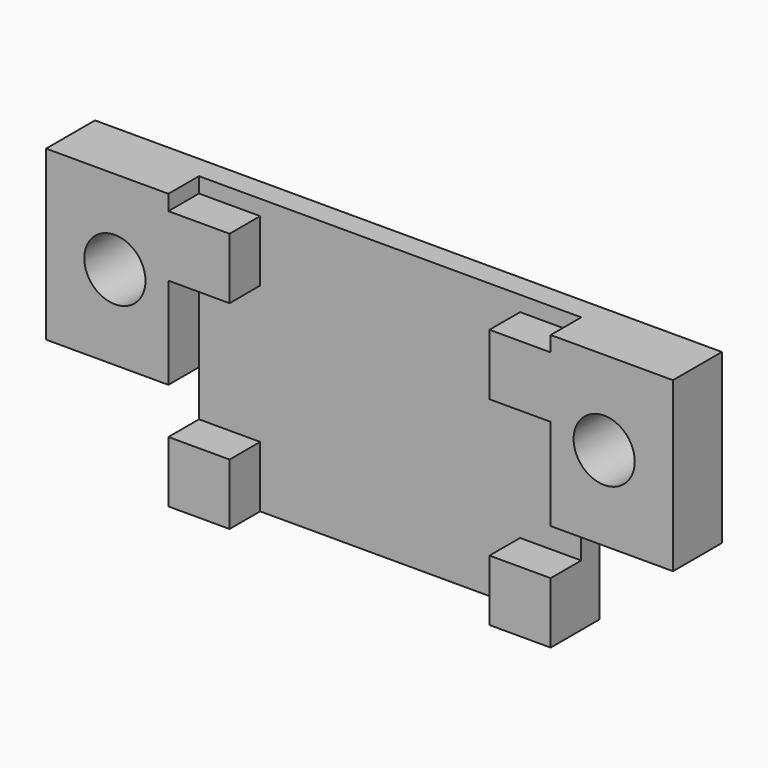
from build123d import *

# Parameters (mm, degrees)
CYLINDER399_R          = 2
CYLINDER399_DEPTH      = 13
CYLINDER398_R          = 2
CYLINDER398_DEPTH      = 13
BOX506_W               = 4
BOX506_H               = 4
BOX506_DEPTH           = 4
BOX510_W               = 25
BOX510_H               = 18
BOX510_DEPTH           = 1.5
BOX507_W               = 4
BOX507_H               = 4
BOX507_DEPTH           = 4
BOX509_W               = 4
BOX509_H               = 4
BOX509_DEPTH           = 4
BOX508_W               = 4
BOX508_H               = 4
BOX508_DEPTH           = 4
BOX511_W               = 8
BOX511_H               = 11
BOX511_DEPTH           = 4
BOX512_W               = 8
BOX512_H               = 11
BOX512_DEPTH           = 4
CUT427_PLACEMENT_ANGLE = 90


with BuildPart() as cylinder399:
    # Cylinder399 → Cylinder399 (new body)
    with BuildSketch(Plane(origin=(-48, -69, -5), x_dir=(1, 0, 0), z_dir=(0, 0, 1))):
        Circle(CYLINDER399_R)
    extrude(amount=CYLINDER399_DEPTH)


with BuildPart() as fusion396:
    # Cylinder398 → Cylinder398 (new body)
    with BuildSketch(Plane(origin=(-16, -69, -5), x_dir=(1, 0, 0), z_dir=(0, 0, 1))):
        Circle(CYLINDER398_R)
    extrude(amount=CYLINDER398_DEPTH)

    # Fusion396: union Cylinder399
    add(cylinder399.part)


with BuildPart() as fusion396_1:
    # Fusion396 placement: moved
    add(fusion396.part.moved(Location((-2.5, 50, 51))))


with BuildPart() as box506:
    # Box506 → Box506 (new body)
    with BuildSketch(Plane(origin=(-26, -10.5, 51), x_dir=(1, 0, 0), z_dir=(0, 0, 1))):
        with Locations((2, 2)):
            Rectangle(BOX506_W, BOX506_H)
    extrude(amount=BOX506_DEPTH)


with BuildPart() as box510:
    # Box510 → Box510 (new body)
    with BuildSketch(Plane(origin=(-47, -24.5, 53.5), x_dir=(1, 0, 0), z_dir=(0, 0, 1))):
        with Locations((12.5, 9)):
            Rectangle(BOX510_W, BOX510_H)
    extrude(amount=BOX510_DEPTH)


with BuildPart() as box507:
    # Box507 → Box507 (new body)
    with BuildSketch(Plane(origin=(-26, -23.5, 51), x_dir=(1, 0, 0), z_dir=(0, 0, 1))):
        with Locations((2, 2)):
            Rectangle(BOX507_W, BOX507_H)
    extrude(amount=BOX507_DEPTH)


with BuildPart() as box509:
    # Box509 → Box509 (new body)
    with BuildSketch(Plane(origin=(-47, -23.5, 51), x_dir=(1, 0, 0), z_dir=(0, 0, 1))):
        with Locations((2, 2)):
            Rectangle(BOX509_W, BOX509_H)
    extrude(amount=BOX509_DEPTH)


with BuildPart() as box508:
    # Box508 → Box508 (new body)
    with BuildSketch(Plane(origin=(-47, -10.5, 51), x_dir=(1, 0, 0), z_dir=(0, 0, 1))):
        with Locations((2, 2)):
            Rectangle(BOX508_W, BOX508_H)
    extrude(amount=BOX508_DEPTH)


with BuildPart() as box511:
    # Box511 → Box511 (new body)
    with BuildSketch(Plane(origin=(-55, -24.5, 51), x_dir=(1, 0, 0), z_dir=(0, 0, 1))):
        with Locations((4, 5.5)):
            Rectangle(BOX511_W, BOX511_H)
    extrude(amount=BOX511_DEPTH)


with BuildPart() as cut427:
    # Box512 → Box512 (new body)
    with BuildSketch(Plane(origin=(-22, -24.5, 51), x_dir=(1, 0, 0), z_dir=(0, 0, 1))):
        with Locations((4, 5.5)):
            Rectangle(BOX512_W, BOX512_H)
    extrude(amount=BOX512_DEPTH)

    # Fusion397: union Box506, Box510, Box507, Box509, Box508, Box511
    add(box506.part)
    add(box510.part)
    add(box507.part)
    add(box509.part)
    add(box508.part)
    add(box511.part)

    # Cut427: cut Fusion396
    add(fusion396_1.part, mode=Mode.SUBTRACT)


with BuildPart() as cut427_1:
    # Cut427 placement: moved
    add(cut427.part.moved(Location((0.5, -149, 15.5))).rotate(Axis((0.5, -149, 15.5), (-1, 0, 0)), CUT427_PLACEMENT_ANGLE))


solid = cut427_1.part
